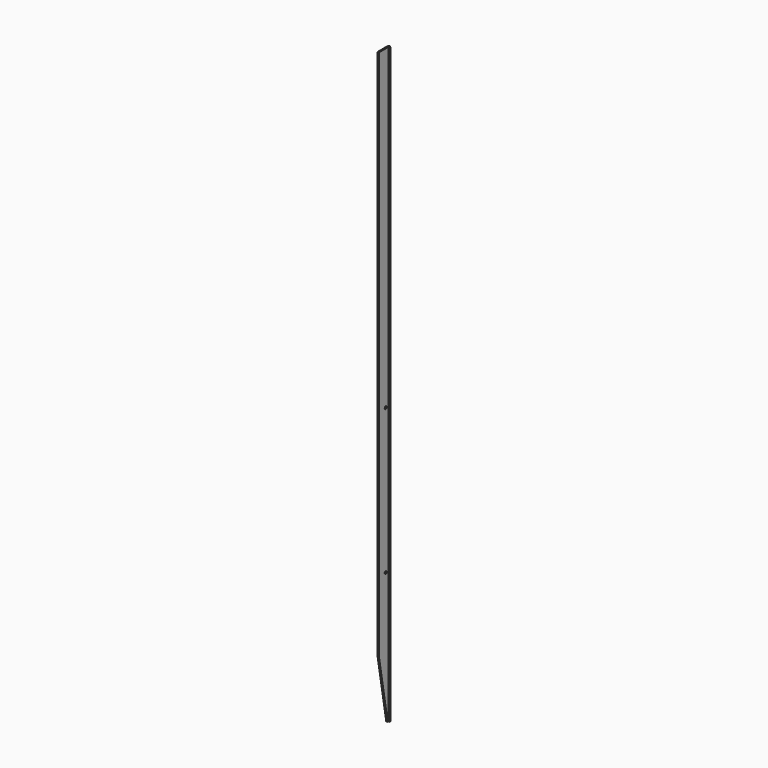
from build123d import *

# Parameters (mm, degrees)
F0_W     = 2.375
F0_H     = 19.5291
F1_DEPTH = 1000
F2_R     = 2.2479
F3_DEPTH = 4.75


with BuildPart() as f1:
    # F0 (on Top) → F1 (new body)
    with BuildSketch(Plane.XY):
        with BuildLine():
            Line((0, 0.921682), (0, 0))
            Line((0, 0), (2.375, 0))
            Line((2.375, 0), (4.75, 0))
            Line((4.75, 0), (4.75, 0.921682))
            Line((4.75, 0.921682), (2.936266, 2.735416))
            ThreePointArc((2.936266, 2.735416), (2.375, 2.9679), (1.813734, 2.735416))
            Line((1.813734, 2.735416), (0, 0.921682))
        make_face()
        with Locations((1.1875, -9.76455)):
            Rectangle(F0_W, F0_H)
    extrude(amount=F1_DEPTH)

    # F2 (on face) → F3 (cut, through all)
    with BuildSketch(Plane(origin=(0, 0, 0), x_dir=(0, -1, 0), z_dir=(-1, 0, 0))):
        Polygon((1.5875, 0), (19.5291, 0), (19.5291, 101.75187), align=None)
        with Locations((5.55625, 222.992953)):
            Circle(F2_R)
        with Locations((5.55625, 467.467953)):
            Circle(F2_R)
    extrude(amount=-F3_DEPTH, mode=Mode.SUBTRACT)


solid = f1.part
